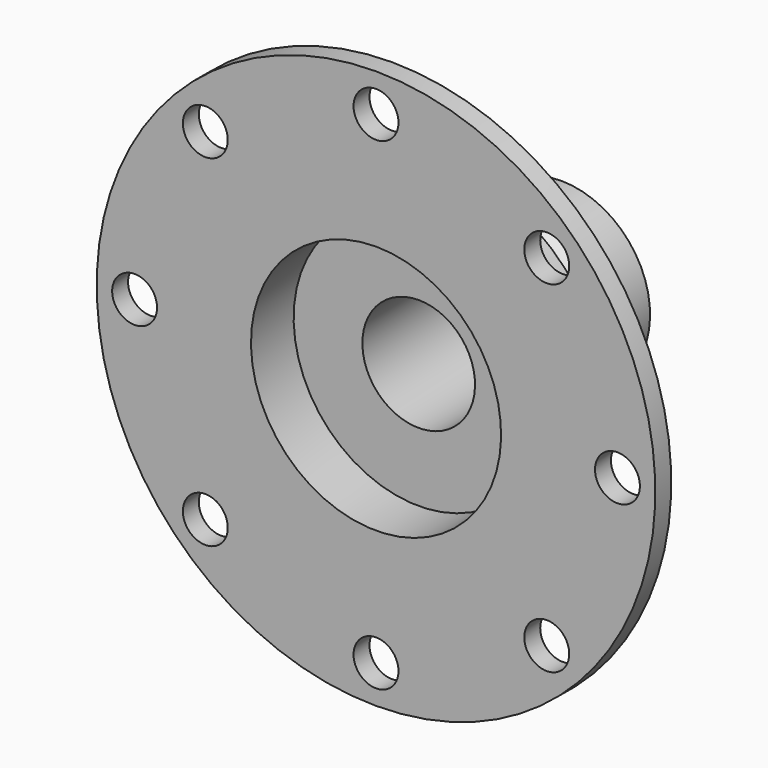
from build123d import *

# Parameters (mm, degrees)
F2_R     = 4
F3_DEPTH = 254


with BuildPart() as f1:
    # F0 (on Right) → F1 (revolve)
    with BuildSketch(Plane.YZ):
        Polygon((0, 49.75), (0, 22.275), (9.5, 22.275), (9.5, 10.0325), (41.2, 10.0325), (41.2, 15.85), (31.7, 15.85), (31.7, 17.875), (27.65, 21), (26.15, 21), (22.1, 17.875), (15.75, 17.875), (15.75, 28.55), (3.55, 28.55), (3.55, 49.75), align=None)
    revolve(axis=Axis((0, 2500.943971, 0), (0, 1, 0)))

    # F2 (on face) → F3 (cut, symmetric)
    with BuildSketch(Plane(origin=(0, 3.55, 0), x_dir=(-1, 0, 0), z_dir=(0, 1, 0))):
        with Locations((0, 43)):
            Circle(F2_R)
        with Locations((-30.405592, 30.405592)):
            Circle(F2_R)
        with Locations((43, 0)):
            Circle(F2_R)
        with Locations((30.405592, 30.405592)):
            Circle(F2_R)
        with Locations((-30.405592, -30.405592)):
            Circle(F2_R)
        with Locations((-43, 0)):
            Circle(F2_R)
        with Locations((0, -43)):
            Circle(F2_R)
        with Locations((30.405592, -30.405592)):
            Circle(F2_R)
    extrude(amount=F3_DEPTH, both=True, mode=Mode.SUBTRACT)


solid = f1.part
